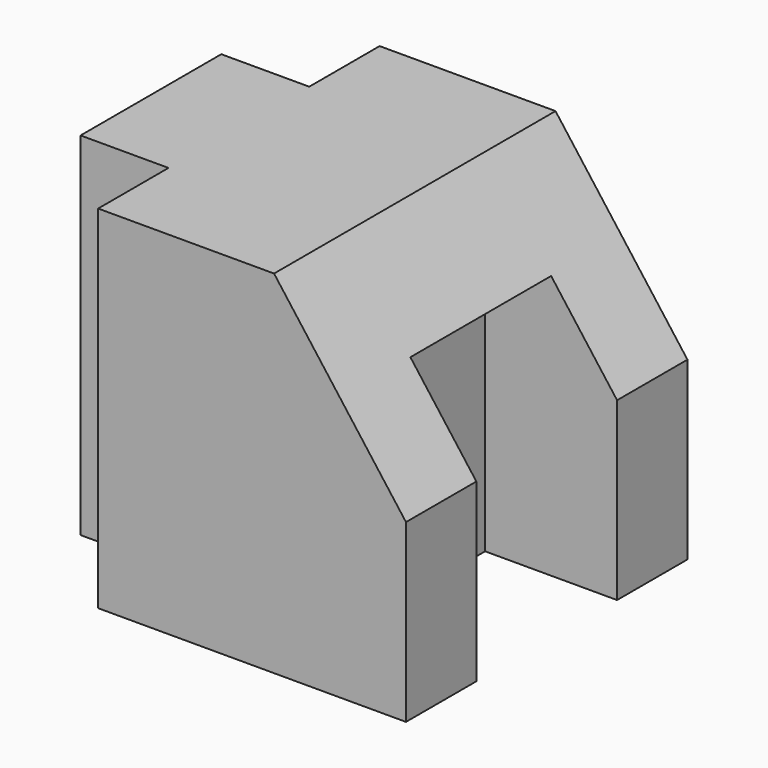
from build123d import *

# Parameters (mm, degrees)
F1_DEPTH = 50.8
F3_DEPTH = 50.8
F4_W     = 19.05
F4_H     = 25.4
F5_DEPTH = 38.1


with BuildPart() as f1:
    # F0 (on Top) → F1 (new body)
    with BuildSketch(Plane.XY):
        Polygon((12.7, 12.7), (12.7, 0), (25.4, 0), (25.4, 50.8), (12.7, 50.8), (12.7, 38.1), (0, 38.1), (0, 12.7), align=None)
    extrude(amount=F1_DEPTH)

    # F2 (on Front) → F3 (join)
    with BuildSketch(Plane.XZ):
        Polygon((25.4, 50.8), (25.4, 0), (57.15, 0), (57.15, 25.4), (38.1, 50.8), align=None)
    extrude(amount=-F3_DEPTH)

    # F4 (on Top) → F5 (cut)
    with BuildSketch(Plane.XY):
        with Locations((47.625, 25.4)):
            Rectangle(F4_W, F4_H)
    extrude(amount=F5_DEPTH, mode=Mode.SUBTRACT)


solid = f1.part
